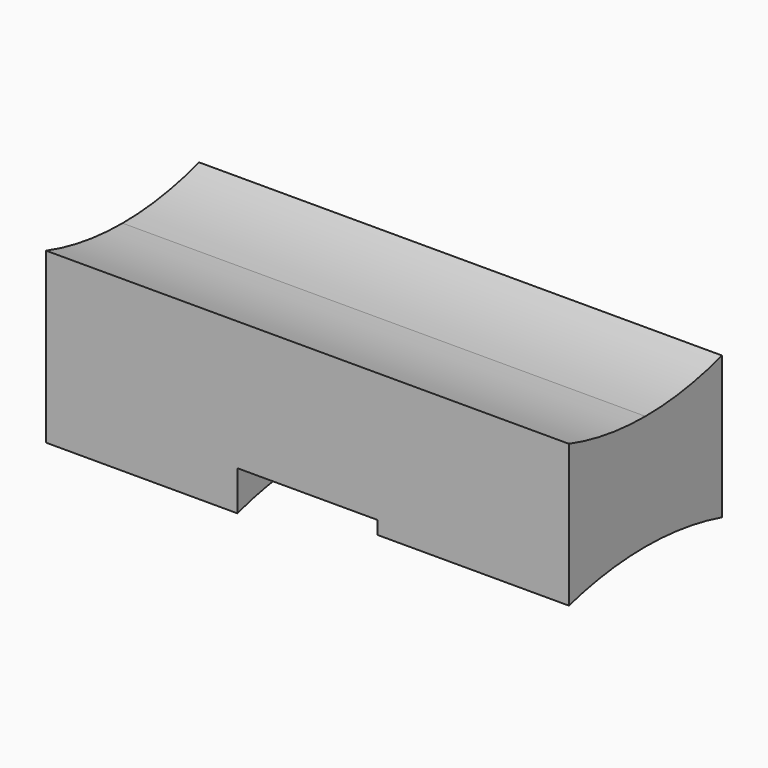
from build123d import *

# Parameters (mm, degrees)
F0_W     = 11
F0_H     = 15
F1_DEPTH = 20
F3_DEPTH = 11
F5_DEPTH = 15
F7_DEPTH = 15
F9_DEPTH = 54.1


with BuildPart() as f1:
    # F0 (on Top) → F1 (new body)
    with BuildSketch(Plane.XY):
        Rectangle(F0_W, F0_H)
    extrude(amount=F1_DEPTH)

    # F2 (on face) → F3 (cut)
    with BuildSketch(Plane(origin=(-5.5, 0, 0), x_dir=(0, -1, 0), z_dir=(-1, 0, 0))):
        with BuildLine():
            ThreePointArc((0, 4), (-20.5060966544, -45.5060966544), (29, -25))
            ThreePointArc((29, -25), (20.5060966544, -4.4939033456), (0, 4))
        make_face()
    extrude(amount=-F3_DEPTH, mode=Mode.SUBTRACT)

    # F4 (on face) → F5 (join)
    with BuildSketch(Plane(origin=(-5.5, 0, 0), x_dir=(0, -1, 0), z_dir=(-1, 0, 0))):
        with BuildLine():
            Line((0, 20), (-7.5, 20))
            Line((-7.5, 20), (-7.5, 3.0133896557))
            ThreePointArc((-7.5, 3.0133896557), (-3.7823074958, 3.7522894742), (0, 4))
            Line((0, 4), (0, 20))
        make_face()
        with BuildLine():
            Line((7.5, 20), (0, 20))
            Line((0, 20), (0, 4))
            ThreePointArc((0, 4), (3.7823074958, 3.7522894742), (7.5, 3.0133896557))
            Line((7.5, 3.0133896557), (7.5, 20))
        make_face()
        with BuildLine():
            ThreePointArc((0, 4), (-3.7823074958, 3.7522894742), (-7.5, 3.0133896557))
            Line((-7.5, 3.0133896557), (-7.5, -0.105221431))
            ThreePointArc((-7.5, -0.105221431), (-3.7904984636, 0.7222106631), (0, 1))
            Line((0, 1), (0, 4))
        make_face()
        with BuildLine():
            ThreePointArc((7.5, 3.0133896557), (3.7823074958, 3.7522894742), (0, 4))
            Line((0, 4), (0, 1))
            ThreePointArc((0, 1), (3.7904984636, 0.7222106631), (7.5, -0.105221431))
            Line((7.5, -0.105221431), (7.5, 3.0133896557))
        make_face()
    extrude(amount=F5_DEPTH)

    # F6 (on face) → F7 (join)
    with BuildSketch(Plane.YZ.offset(5.5)):
        with BuildLine():
            Line((0, 20), (-7.5, 20))
            Line((-7.5, 20), (-7.5, 3.0133896557))
            ThreePointArc((-7.5, 3.0133896557), (-3.7823074958, 3.7522894742), (0, 4))
            Line((0, 4), (0, 20))
        make_face()
        with BuildLine():
            ThreePointArc((0, 4), (-3.7823074958, 3.7522894742), (-7.5, 3.0133896557))
            Line((-7.5, 3.0133896557), (-7.5, 1.9768419204))
            ThreePointArc((-7.5, 1.9768419204), (-3.7847342197, 2.7430313211), (0, 3))
            Line((0, 3), (0, 4))
        make_face()
        with BuildLine():
            ThreePointArc((7.5, 3.0133896557), (3.7823074958, 3.7522894742), (0, 4))
            Line((0, 4), (0, 3))
            ThreePointArc((0, 3), (3.7847342197, 2.7430313211), (7.5, 1.9768419204))
            Line((7.5, 1.9768419204), (7.5, 3.0133896557))
        make_face()
        with BuildLine():
            Line((7.5, 20), (0, 20))
            Line((0, 20), (0, 4))
            ThreePointArc((0, 4), (3.7823074958, 3.7522894742), (7.5, 3.0133896557))
            Line((7.5, 3.0133896557), (7.5, 20))
        make_face()
    extrude(amount=F7_DEPTH)

    # F8 (on face) → F9 (cut)
    with BuildSketch(Plane.YZ.offset(20.5)):
        with BuildLine():
            ThreePointArc((0, 12), (17.6776695297, 19.3223304703), (25, 37))
            ThreePointArc((25, 37), (-17.6776695297, 54.6776695297), (0, 12))
        make_face()
    extrude(amount=-F9_DEPTH, mode=Mode.SUBTRACT)


solid = f1.part
